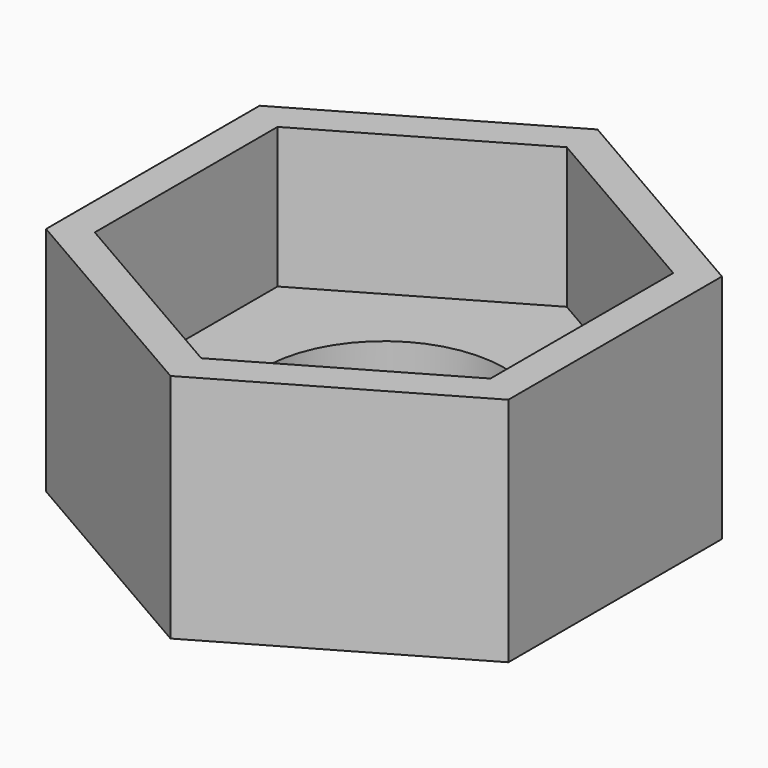
from build123d import *

# Parameters (mm, degrees)
F0_R     = 3.37312
F1_DEPTH = 2.54
F2_DEPTH = 6.477


with BuildPart() as f1:
    # F0 (on Top) → F1 (new body)
    with BuildSketch(Plane.XY):
        Polygon((5.54355, -3.20057), (5.54355, 3.20057), (0, 6.40114), (-5.54355, 3.20057), (-5.54355, -3.20057), (0, -6.40114), align=None)
        Circle(F0_R, mode=Mode.SUBTRACT)
    extrude(amount=F1_DEPTH)

    # F0 (on Top) → F2 (join)
    with BuildSketch(Plane.XY):
        Polygon((6.477, -3.739498), (6.477, 3.739498), (0, 7.478995), (-6.477, 3.739498), (-6.477, -3.739498), (0, -7.478995), align=None)
        Polygon((0, 6.40114), (5.54355, 3.20057), (5.54355, -3.20057), (0, -6.40114), (-5.54355, -3.20057), (-5.54355, 3.20057), align=None, mode=Mode.SUBTRACT)
    extrude(amount=F2_DEPTH)


solid = f1.part
